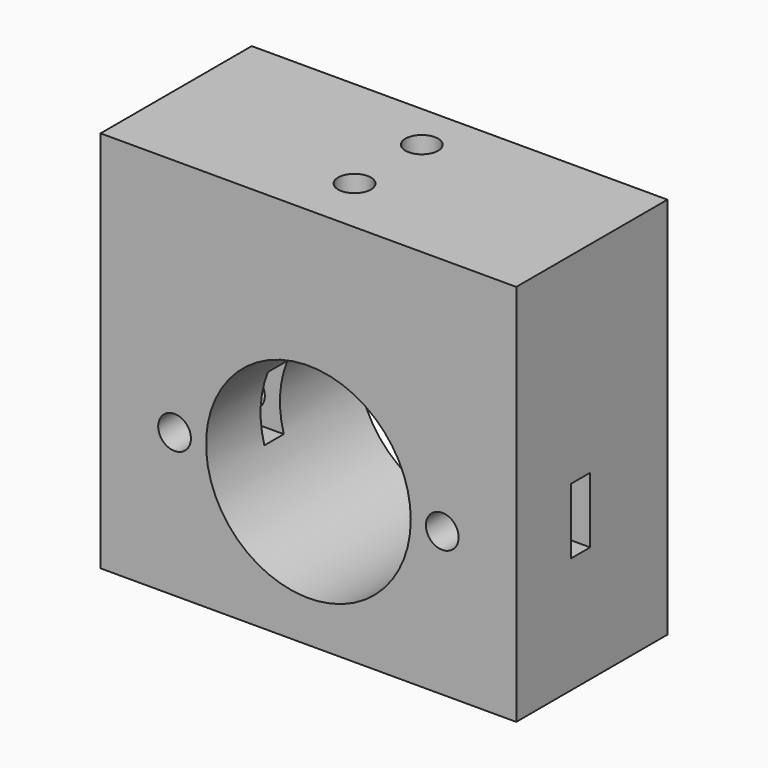
from build123d import *

# Parameters (mm, degrees)
F0_W      = 41.91
F0_H      = 35.306
F1_DEPTH  = 19.05
F2_R      = 10.31875
F3_DEPTH  = 19.05
F5_DEPTH  = 14.6530745281
F6_DEPTH  = 5.842
F7_W      = 19.05
F7_H      = 4.8259994193
F8_DEPTH  = 25.4
F9_D      = 3.3
F9_DEPTH  = 12.7
F9_TIP    = 0.9914200214
F11_D     = 3.3
F12_W     = 2.444460988
F12_H     = 6.6262371838
F13_DEPTH = 59.9186
F14_DEPTH = 3.302


with BuildPart() as f1:
    # F0 (on Front) → F1 (new body)
    with BuildSketch(Plane.XZ):
        Rectangle(F0_W, F0_H)
    extrude(amount=F1_DEPTH)

    # F2 (on face) → F3 (cut, through all)
    with BuildSketch(Plane.XZ.offset(19.05)):
        with Locations((0, -6.465669493)):
            Circle(F2_R)
    extrude(amount=-F3_DEPTH, mode=Mode.SUBTRACT)

    # F4 (on face) → F5 (cut, through all)
    with BuildSketch(Plane.XY.offset(17.653)):
        Polygon((2.0530575572, -9.6835951077), (0, -9.6835951077), (-2.0530575572, -9.6835951077), (-4.1061151145, -13.2395951077), (-2.0530575572, -16.7955951077), (2.0530575572, -16.7955951077), (4.1061151145, -13.2395951077), align=None)
        Polygon((-2.0530575572, -8.3185), (0, -8.3185), (2.0530575572, -8.3185), (4.1061151145, -4.7625), (2.0530575572, -1.2065), (-2.0530575572, -1.2065), (-4.1061151145, -4.7625), align=None)
    extrude(amount=-F5_DEPTH, mode=Mode.SUBTRACT)

    # F6 (add): a face of the model
    f6_faces = [f1.faces().sort_by_distance(p)[0] for p in [
        (0, -9.5895806435, 17.653),
    ]]
    extrude(f6_faces, amount=-F6_DEPTH)

    # F7 (on face) → F8 (join)
    with BuildSketch(Plane.YZ.offset(20.955)):
        with Locations((-9.525, 15.2400002904)):
            Rectangle(F7_W, F7_H)
    extrude(amount=-F8_DEPTH)

    # F9
    with Locations(Plane.XY.offset(17.653)):
        with Locations((0, -4.7625), (0, -13.2395951077)):
            Hole(F9_D / 2, depth=F9_DEPTH)
            with Locations((0, 0, -(F9_DEPTH + F9_TIP / 2))):  # 118° drill point
                Cone(0, F9_D / 2, F9_TIP, mode=Mode.SUBTRACT)

    # F11 (through all)
    with Locations(Plane(origin=(0, 0, 0), x_dir=(-1, 0, 0), z_dir=(0, 1, 0))):
        with Locations((-13.49375, -6.465669493), (13.49375, -6.465669493)):
            Hole(F11_D / 2)

    # F12 (on face) → F13 (cut)
    with BuildSketch(Plane(origin=(-20.955, 0, 0), x_dir=(0, -1, 0), z_dir=(-1, 0, 0))):
        with Locations((10.960043408, -5.9355609119)):
            Rectangle(F12_W, F12_H)
    extrude(amount=-F13_DEPTH, mode=Mode.SUBTRACT)

    # F14 (add): a face of the model
    f14_faces = [f1.faces().sort_by_distance(p)[0] for p in [
        (0, -9.525, -17.653),
    ]]
    extrude(f14_faces, amount=F14_DEPTH)


solid = f1.part
